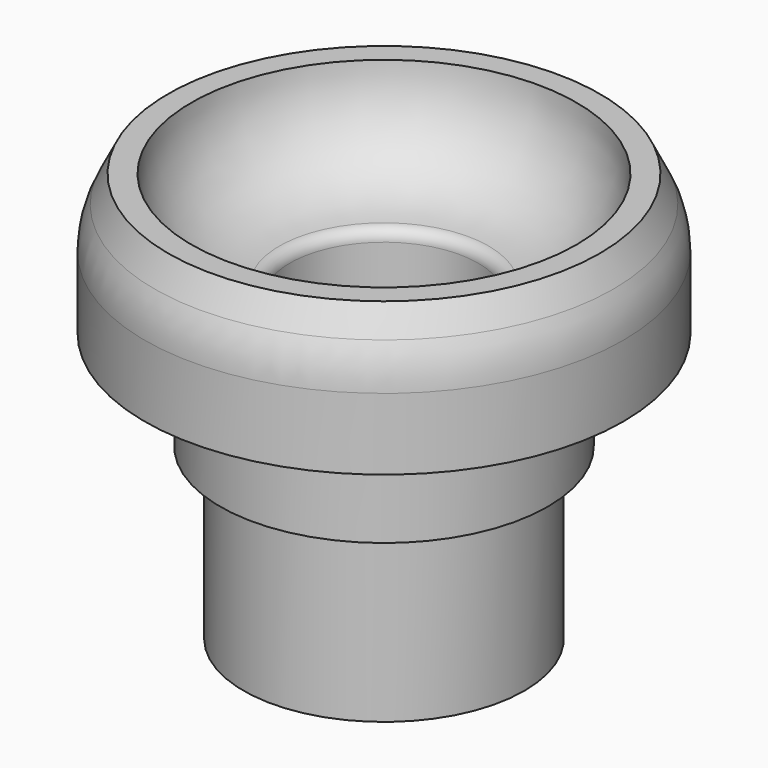
from build123d import *


with BuildPart() as f1:
    # F0 (on Front) → F1 (revolve)
    with BuildSketch(Plane.XZ):
        with BuildLine():
            Line((8.05, 25.653343), (8.05, 0))
            Line((8.05, 0), (12, 0))
            Line((12, 0), (12, 14.5))
            Line((12, 14.5), (14, 14.5))
            Line((14, 14.5), (14, 23))
            Line((14, 23), (20.45, 23))
            Line((20.45, 23), (20.45, 29.111456))
            ThreePointArc((20.45, 29.111456), (20.235992, 30.94948), (19.605418, 32.689165))
            Line((19.605418, 32.689165), (18.45, 35))
            Line((18.45, 35), (16.45, 35))
            ThreePointArc((16.45, 35), (14.297655, 29.385126), (8.943617, 26.647668))
            ThreePointArc((8.943617, 26.647668), (8.306232, 26.32178), (8.05, 25.653343))
        make_face()
    revolve(axis=Axis((0, 0, 17.5), (0, 0, 1)))


solid = f1.part
